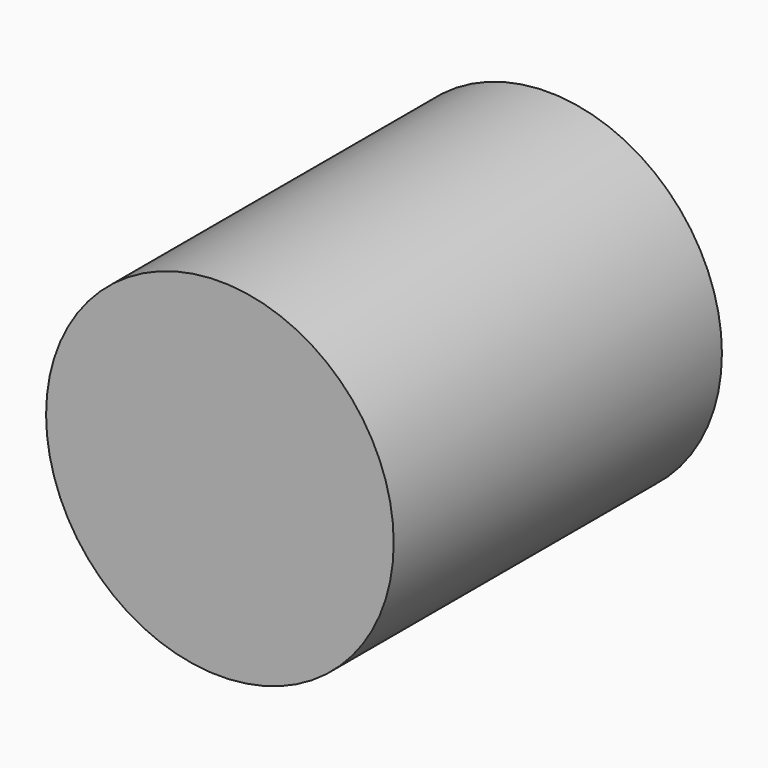
from build123d import *

# Parameters (mm, degrees)
F0_R     = 10.761432
F1_DEPTH = 25.4
F2_DEPTH = 25.4


with BuildPart() as f1:
    # F0 (on Front) → F1 (new body)
    with BuildSketch(Plane.XZ):
        Circle(F0_R)
    extrude(amount=F1_DEPTH)

    # F0 (on Front) → F2 (join)
    with BuildSketch(Plane.XZ):
        Circle(F0_R)
    extrude(amount=F2_DEPTH)


solid = f1.part
